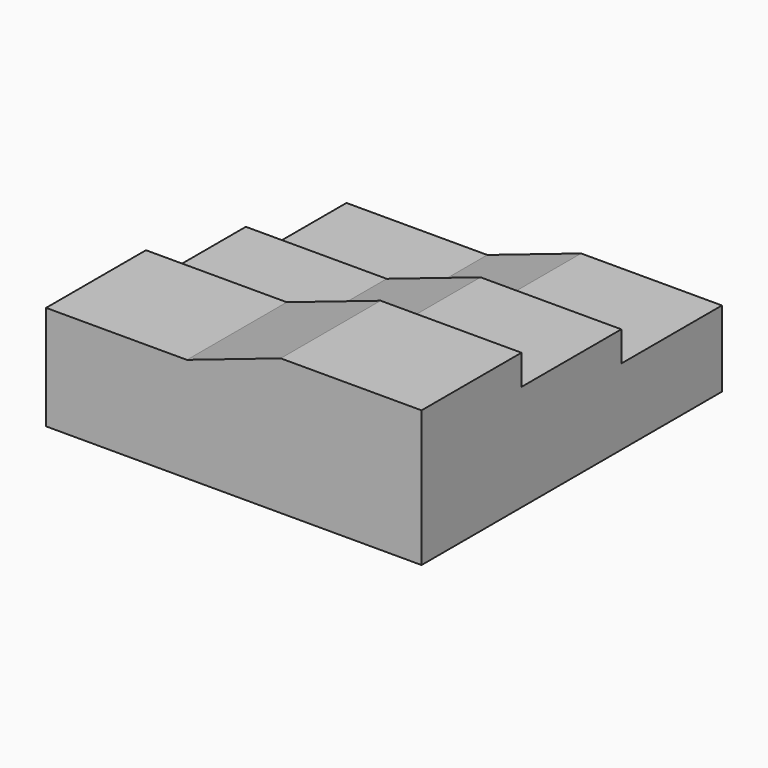
from build123d import *

# Parameters (mm, degrees)
F1_DEPTH = 101.6
F2_DEPTH = 67.564
F3_DEPTH = 33.782


with BuildPart() as f1:
    # F0 (on Front) → F1 (new body)
    with BuildSketch(Plane.XZ):
        Polygon((-24.286251, -20.083786), (77.313749, -20.083786), (77.313749, 0.464413), (39.213749, 0.464413), (13.813749, -8.153985), (-24.286251, -8.153985), align=None)
    extrude(amount=-F1_DEPTH)

    # F0 (on Front) → F2 (join)
    with BuildSketch(Plane.XZ):
        Polygon((39.213749, 0.464413), (77.313749, 0.464413), (77.313749, 8.618398), (39.213749, 8.618398), (13.813749, 0), (-24.286251, 0), (-24.286251, -8.153985), (13.813749, -8.153985), align=None)
    extrude(amount=-F2_DEPTH)

    # F0 (on Front) → F3 (join)
    with BuildSketch(Plane.XZ):
        Polygon((39.213749, 8.618398), (77.313749, 8.618398), (77.313749, 16.772382), (39.213749, 16.772382), (13.813749, 8.153985), (-24.286251, 8.153985), (-24.286251, 0), (13.813749, 0), align=None)
    extrude(amount=-F3_DEPTH)


solid = f1.part
